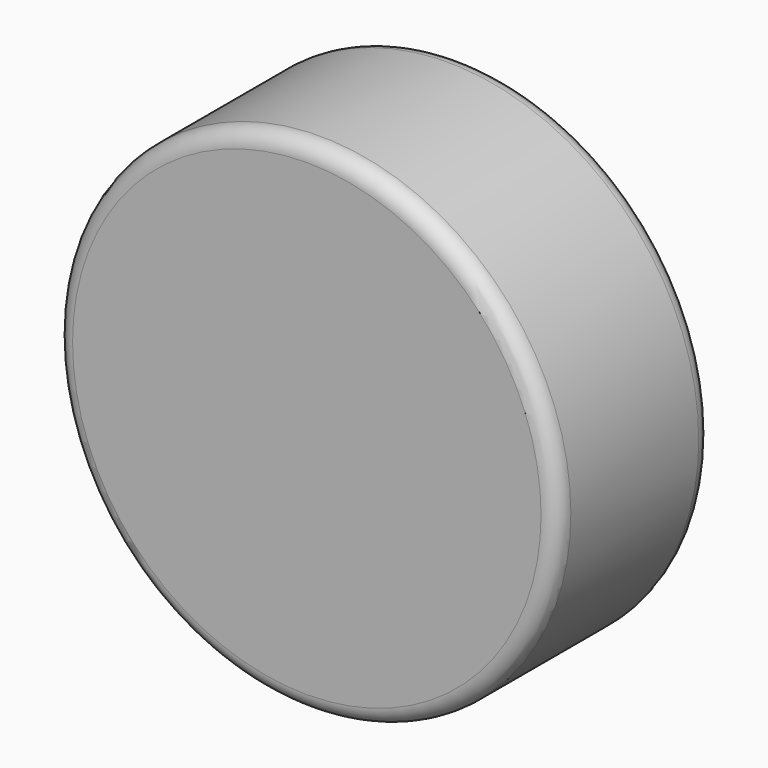
from build123d import *

# Parameters (mm, degrees)
F0_R     = 76.939603
F1_DEPTH = 59.201904
F2_R     = 5.08


with BuildPart() as f1:
    # F0 (on Front) → F1 (new body)
    with BuildSketch(Plane.XZ):
        Circle(F0_R)
        Circle(F0_R)
    extrude(amount=F1_DEPTH)

    # F2
    f2_edges = [f1.edges().sort_by_distance(p)[0] for p in [
        (76.939603, -29.600952, 0),
        (-76.939603, 0, 0),
        (-76.939603, -59.201904, 0),
    ]]
    fillet(f2_edges, radius=F2_R)


solid = f1.part
